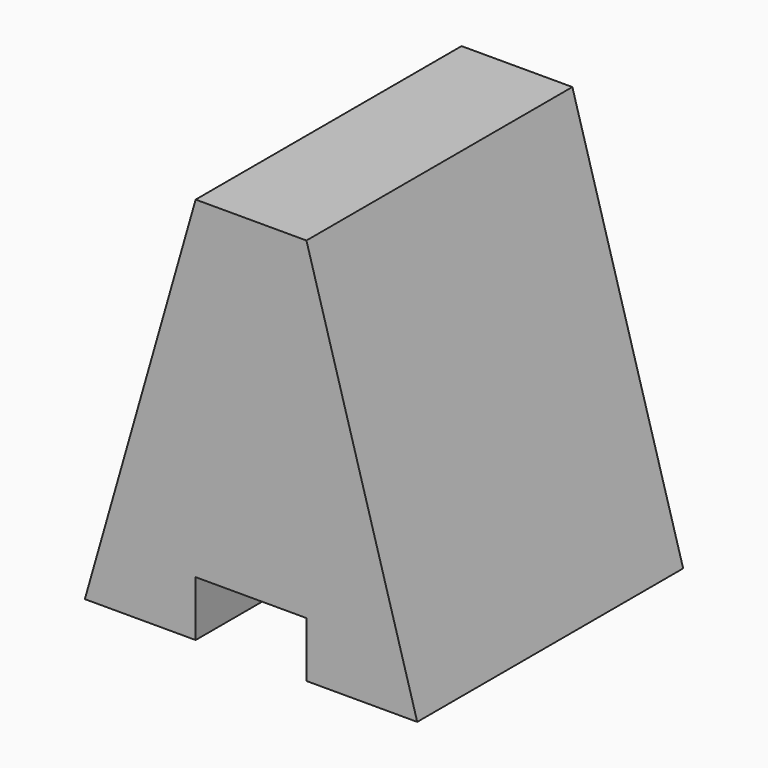
from build123d import *

# Parameters (mm, degrees)
F0_W     = 38.1
F0_H     = 44.45
F1_DEPTH = 38.1
F2_W     = 12.7
F2_H     = 6.35
F3_DEPTH = 65.532
F5_DEPTH = 60.706
F7_DEPTH = 60.706


with BuildPart() as f1:
    # F0 (on Front) → F1 (new body)
    with BuildSketch(Plane.XZ):
        with Locations((19.05, 22.225)):
            Rectangle(F0_W, F0_H)
    extrude(amount=F1_DEPTH)

    # F2 (on face) → F3 (cut)
    with BuildSketch(Plane.XZ.offset(38.1)):
        with Locations((19.05, 3.175)):
            Rectangle(F2_W, F2_H)
    extrude(amount=-F3_DEPTH, mode=Mode.SUBTRACT)

    # F4 (on face) → F5 (cut)
    with BuildSketch(Plane.XZ.offset(38.1)):
        Polygon((0, 0), (12.7, 44.45), (0, 44.45), align=None)
    extrude(amount=-F5_DEPTH, mode=Mode.SUBTRACT)

    # F6 (on face) → F7 (cut)
    with BuildSketch(Plane.XZ.offset(38.1)):
        Polygon((38.1, 44.45), (25.4, 44.45), (38.1, 0), align=None)
    extrude(amount=-F7_DEPTH, mode=Mode.SUBTRACT)


solid = f1.part
